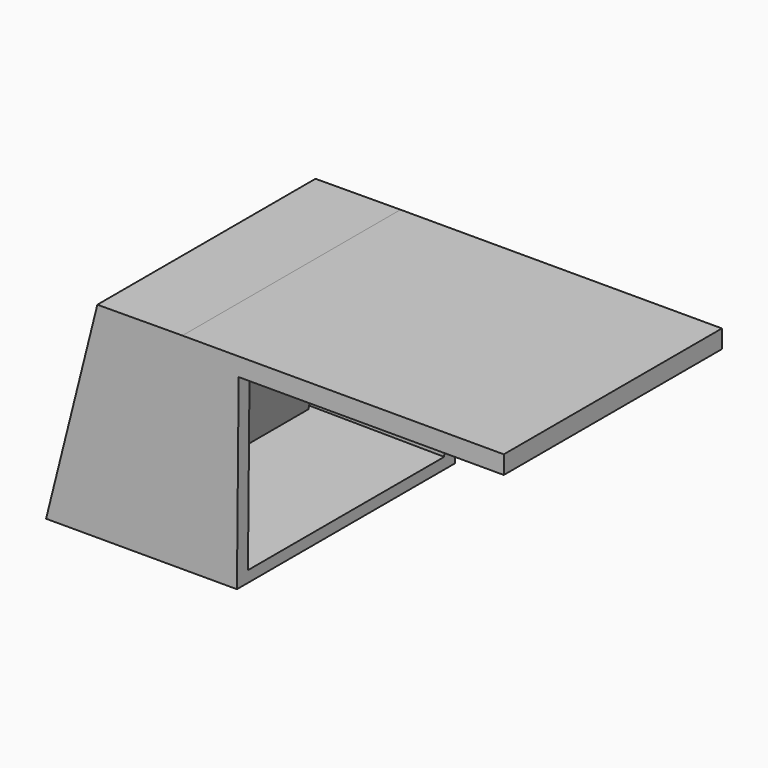
from build123d import *

# Parameters (mm, degrees)
F1_DEPTH = 127
F2_W     = 114.3
F2_H     = 78.3924195651
F3_DEPTH = 63.5
F4_W     = 50.8
F4_H     = 80.7171528415
F5_DEPTH = 25.4
F6_DEPTH = 25.4


with BuildPart() as f1:
    # F0 (on Front) → F1 (new body)
    with BuildSketch(Plane.XZ):
        Polygon((39.6109314713, 59.2122177594), (0, 59.0080402892), (-23.8890685287, -36.5482338256), (65.0109314713, -36.5482338256), (65.8180707803, 50.7267867081), (189.3294194156, 50.7267867081), (189.3294194156, 59.2122177594), align=None)
    extrude(amount=F1_DEPTH)

    # F2 (on face) → F3 (cut)
    with BuildSketch(Plane(origin=(65.3433490805, 0, -0.6043102058), x_dir=(0, 1, 0), z_dir=(0.9999572379, 0, -0.0092478328))):
        with Locations((-63.5, 8.5045392761)):
            Rectangle(F2_W, F2_H)
    extrude(amount=-F3_DEPTH, mode=Mode.SUBTRACT)

    # F4 (on face) → F5 (cut)
    with BuildSketch(Plane(origin=(-13.8842447739, 0, 3.4710611935), x_dir=(0, -1, 0), z_dir=(-0.9701425001, 0, 0.242535625))):
        with Locations((34.29, 7.9976313141)):
            Rectangle(F4_W, F4_H)
        with Locations((92.71, 7.9976313141)):
            Rectangle(F4_W, F4_H)
    extrude(amount=-F5_DEPTH, mode=Mode.SUBTRACT)


with BuildPart() as f6:
    # F4 (on face) → F6 (new body)
    with BuildSketch(Plane(origin=(-13.8842447739, 0, 3.4710611935), x_dir=(0, -1, 0), z_dir=(-0.9701425001, 0, 0.242535625))):
        with Locations((34.29, 7.9976313141)):
            Rectangle(F4_W, F4_H)
    extrude(amount=-F6_DEPTH)


with BuildPart() as f6b:
    # F4 (on face) → F6, piece 2 (new body)
    with BuildSketch(Plane(origin=(-13.8842447739, 0, 3.4710611935), x_dir=(0, -1, 0), z_dir=(-0.9701425001, 0, 0.242535625))):
        with Locations((92.71, 7.9976313141)):
            Rectangle(F4_W, F4_H)
    extrude(amount=-F6_DEPTH)


solid = Compound([f1.part, f6.part, f6b.part])
